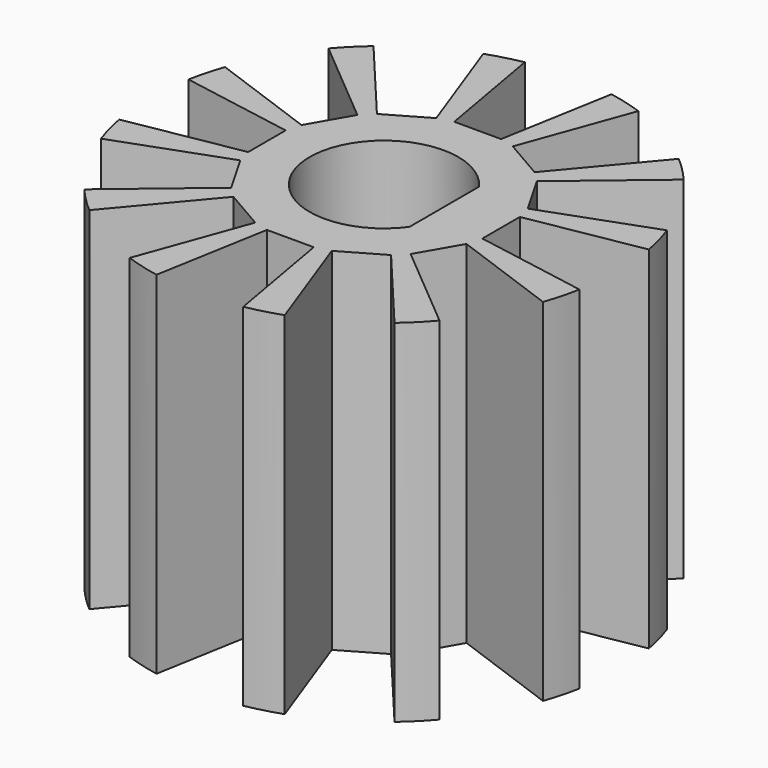
from build123d import *

# Parameters (mm, degrees)
SKETCH_R           = 10
PAD_DEPTH          = 15
POCKET_DEPTH       = 15.001
POCKET001_DEPTH    = 79.032242
POLARPATTERN_COUNT = 12


with BuildPart() as part:
    # Sketch → Pad (new body)
    with BuildSketch(Plane.XY):
        Circle(SKETCH_R)
    extrude(amount=PAD_DEPTH)

    # Sketch001 (on Face3 of Pad) → Pocket (cut, through all)
    with BuildSketch(Plane.XY.offset(15)):
        with BuildLine():
            ThreePointArc((2.575, 1.857418), (-3.175, 0), (2.575, -1.857418))
            Line((2.575, 1.857418), (2.575, -1.857418))
        make_face()
    extrude(amount=-POCKET_DEPTH, mode=Mode.SUBTRACT)

    # Sketch002 (on Face3 of Pocket) → Pocket001 (cut, through all)
    with BuildSketch(Plane.XY.offset(15)):
        Polygon((-1, 5), (1, 5), (2.041891, 10.908846), (-2.041888, 10.908847), align=None)
    pocket001 = extrude(amount=-POCKET001_DEPTH, mode=Mode.SUBTRACT)

    # PolarPattern: Pocket001 ×12 about axis
    polarpattern_axis = Axis((0, 0, 15), (0, 0, 1))
    for i in range(1, POLARPATTERN_COUNT):
        add(pocket001.rotate(polarpattern_axis, i * 360 / POLARPATTERN_COUNT), mode=Mode.SUBTRACT)


solid = part.part
